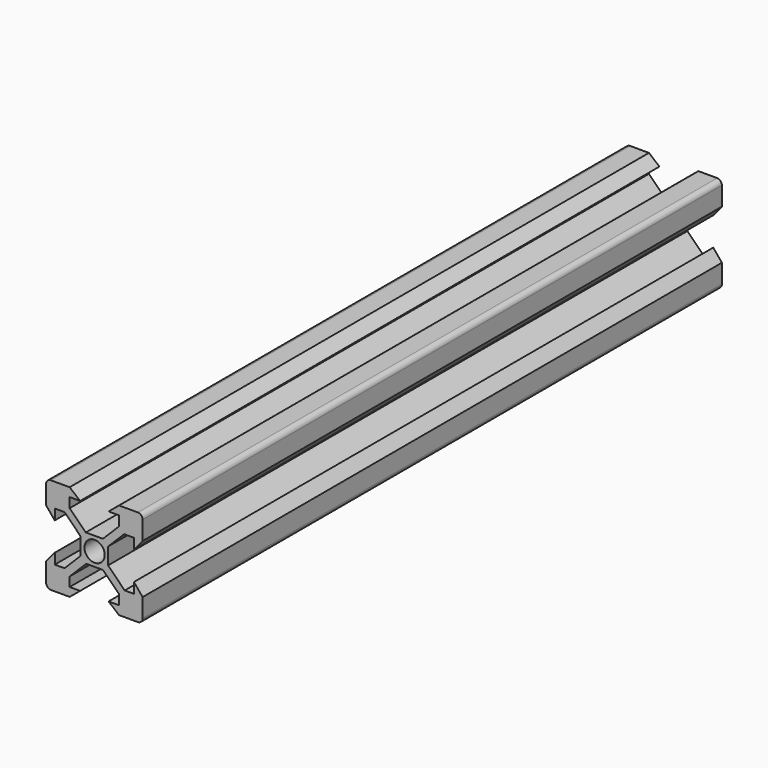
from build123d import *

# Parameters (mm, degrees)
F2_DEPTH = 150
F3_D     = 4.2


with BuildPart() as f2:
    # F0 (on Front) → F2 (new body)
    with BuildSketch(Plane.XZ):
        Polygon((16.8, 2.86066), (17.954509, 1.8), (19.885, 3.730491), (22.737255, 6.582745), (23.314509, 7.16), (26.783917, 7.16), (27.361171, 6.582745), (30.115, 3.828917), (32.143917, 1.8), (33.2, 2.969672), (31.284672, 4.885), (28.37033, 7.799342), (27.84, 8.329672), (27.84, 11.77934), (28.37033, 12.30967), (31.17566, 15.115), (33.2, 17.13934), (32.13934, 18.2), (30.115, 16.17566), (27.30967, 13.37033), (26.77934, 12.84), (23.22066, 12.84), (22.69033, 13.37033), (19.885, 16.17566), (17.86066, 18.2), (16.8, 17.13934), (18.82434, 15.115), (21.62967, 12.30967), (22.16, 11.77934), (22.16, 8.22066), (21.62967, 7.69033), (18.82434, 4.885), align=None)
        Polygon((32.143917, 1.8), (30.115, 3.828917), (30.115, 1.8), align=None)
        Polygon((18.82434, 4.885), (16.8, 4.885), (16.8, 2.86066), align=None)
        with BuildLine():
            Line((15, 4.885), (15, 1))
            ThreePointArc((15, 1), (15.292893, 0.292893), (16, 0))
            Line((16, 0), (17.954509, 0))
            Line((17.954509, 0), (17.954509, 1.8))
            Line((17.954509, 1.8), (16.8, 2.86066))
            Line((16.8, 2.86066), (16.8, 4.885))
            Line((16.8, 4.885), (16.8, 7.055))
            Line((16.8, 7.055), (15, 4.885))
        make_face()
        Polygon((17.954509, 1.8), (17.954509, 0), (19.885, 0), (22.055, 1.8), (19.885, 1.8), align=None)
        with BuildLine():
            Line((16.8, 15.115), (16.8, 17.13934))
            Line((16.8, 17.13934), (17.86066, 18.2))
            Line((17.86066, 18.2), (19.885, 18.2))
            Line((19.885, 18.2), (22.055, 18.2))
            Line((22.055, 18.2), (19.885, 20))
            Line((19.885, 20), (16, 20))
            ThreePointArc((16, 20), (15.292893, 19.707107), (15, 19))
            Line((15, 19), (15, 15.115))
            Line((15, 15.115), (16.8, 12.945))
            Line((16.8, 12.945), (16.8, 15.115))
        make_face()
        Polygon((19.885, 18.2), (17.86066, 18.2), (19.885, 16.17566), align=None)
        with BuildLine():
            Line((33.2, 12.945), (35, 15.115))
            Line((35, 15.115), (35, 19))
            ThreePointArc((35, 19), (34.707107, 19.707107), (34, 20))
            Line((34, 20), (30.115, 20))
            Line((30.115, 20), (27.945, 18.2))
            Line((27.945, 18.2), (30.115, 18.2))
            Line((30.115, 18.2), (32.13934, 18.2))
            Line((32.13934, 18.2), (33.2, 17.13934))
            Line((33.2, 17.13934), (33.2, 15.115))
            Line((33.2, 15.115), (33.2, 12.945))
        make_face()
        Polygon((31.17566, 15.115), (33.2, 15.115), (33.2, 17.13934), align=None)
        Polygon((31.284672, 4.885), (33.2, 2.969672), (33.2, 4.885), align=None)
        with BuildLine():
            Line((33.2, 2.969672), (32.143917, 1.8))
            Line((32.143917, 1.8), (30.115, 1.8))
            Line((30.115, 1.8), (27.945, 1.8))
            Line((27.945, 1.8), (30.115, 0))
            Line((30.115, 0), (34, 0))
            ThreePointArc((34, 0), (34.707107, 0.292893), (35, 1))
            Line((35, 1), (35, 4.885))
            Line((35, 4.885), (33.2, 7.055))
            Line((33.2, 7.055), (33.2, 4.885))
            Line((33.2, 4.885), (33.2, 2.969672))
        make_face()
        Polygon((19.885, 3.730491), (17.954509, 1.8), (19.885, 1.8), align=None)
        Polygon((16.8, 15.115), (18.82434, 15.115), (16.8, 17.13934), align=None)
        Polygon((30.115, 18.2), (30.115, 16.17566), (32.13934, 18.2), align=None)
    extrude(amount=F2_DEPTH)

    # F3 (through all)
    with Locations(Plane.XZ.offset(150)):
        with Locations((25.049213, 10)):
            Hole(F3_D / 2)


solid = f2.part
